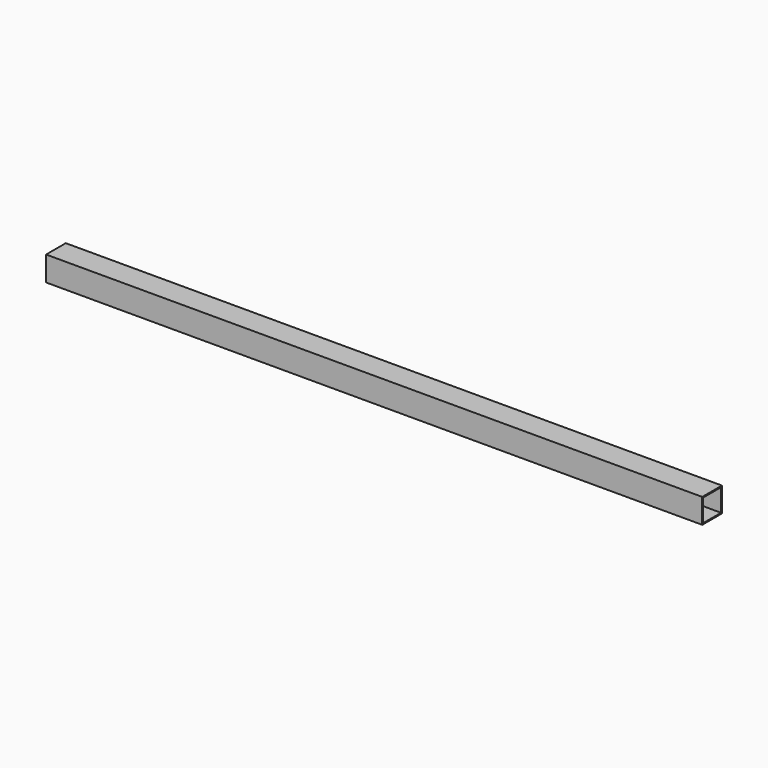
from build123d import *

# Parameters (mm, degrees)
F0_W          = 38.1
F0_H          = 38.1
F0_W_2        = 34.798
F0_H_2        = 34.798
F1_DEPTH      = 508
F1_DEPTH_BACK = 508


with BuildPart() as f1:
    # F0 (on Right) → F1 (new body, two sides)
    with BuildSketch(Plane.YZ) as f1_sk:
        Rectangle(F0_W, F0_H)
        Rectangle(F0_W_2, F0_H_2, mode=Mode.SUBTRACT)
    extrude(amount=F1_DEPTH)
    extrude(f1_sk.sketch, amount=-F1_DEPTH_BACK)


solid = f1.part
